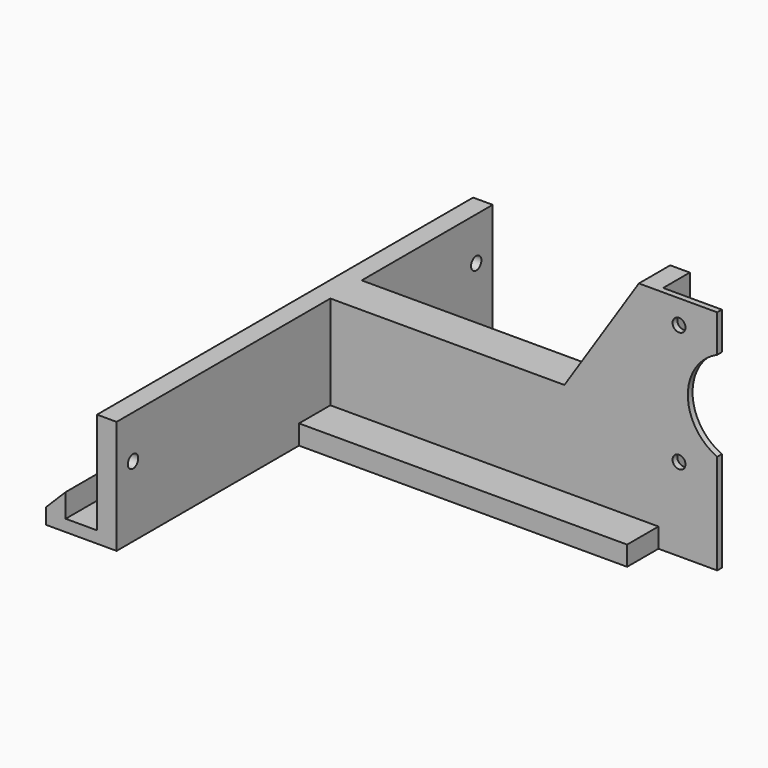
from build123d import *

# Parameters (mm, degrees)
F1_R          = 1.65
F2_DEPTH      = 1.5
F3_DEPTH      = 1.5
F3_DEPTH_BACK = 8.5
F4_W          = 10
F4_H          = 5
F5_DEPTH      = 88.75
F7_DEPTH      = 60
F9_D          = 3.3


with BuildPart() as f2:
    # F1 (on offset) → F2 (new body)
    with BuildSketch(Plane.XZ.offset(-9.7)):
        with BuildLine():
            Line((88.75, 58), (88.75, 0))
            Line((88.75, 0), (103.75, 0))
            Line((103.75, 0), (103.75, 25.543561))
            ThreePointArc((103.75, 25.543561), (96.25, 37), (103.75, 48.456439))
            Line((103.75, 48.456439), (103.75, 58))
            Line((103.75, 58), (88.75, 58))
        make_face()
        with Locations((94, 21.197826)):
            Circle(F1_R, mode=Mode.SUBTRACT)
        with Locations((94, 51.947826)):
            Circle(F1_R, mode=Mode.SUBTRACT)
    extrude(amount=F2_DEPTH)

    # F1 (on offset) → F3 (join, two sides)
    with BuildSketch(Plane.XZ.offset(-9.7)) as f3_sk:
        Polygon((0, 0), (88.75, 0), (88.75, 58), (83.75, 58), (64.75, 29), (0, 29), align=None)
    extrude(amount=F3_DEPTH)
    extrude(f3_sk.sketch, amount=-F3_DEPTH_BACK)

    # F4 (on face) → F5 (join, through all)
    with BuildSketch(Plane(origin=(0, 0, 0), x_dir=(0, -1, 0), z_dir=(-1, 0, 0))):
        with Locations((-23.2, 2.5)):
            Rectangle(F4_W, F4_H)
        with Locations((-3.2, 2.5)):
            Rectangle(F4_W, F4_H)
    extrude(amount=-F5_DEPTH)

    # F6 (on Front) → F7 (join, symmetric)
    with BuildSketch(Plane.XZ):
        Polygon((-13, 4), (-13, 0), (5, 0), (5, 29), (0, 29), (0, 3), (-8, 3), (-8, 9), align=None)
    extrude(amount=F7_DEPTH, both=True)

    # F9 (through all)
    with Locations(Plane(origin=(0, 0, 0), x_dir=(0, -1, 0), z_dir=(-1, 0, 0))):
        with Locations((54.75, 18), (-54.75, 18)):
            Hole(F9_D / 2)


solid = f2.part
